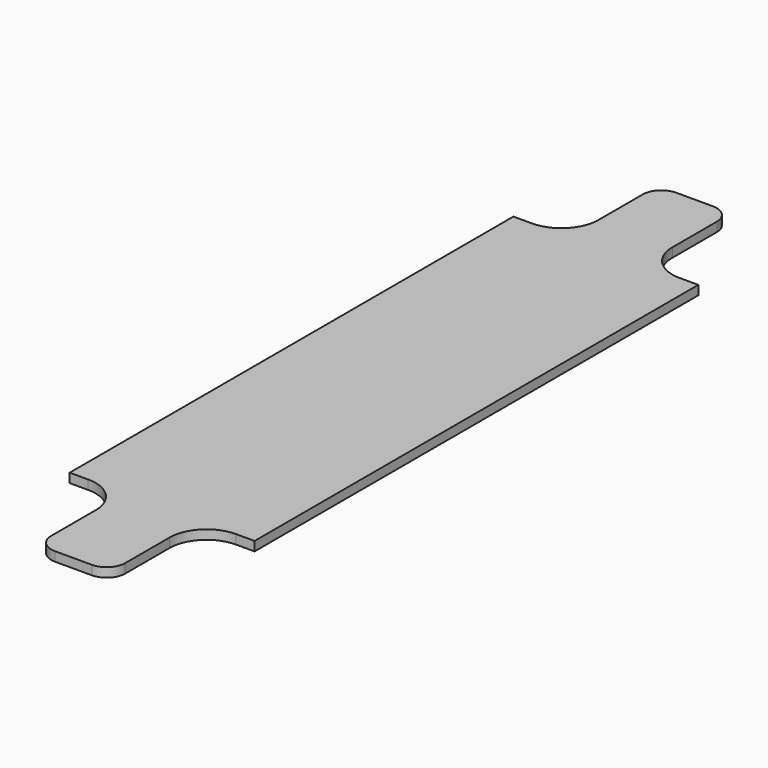
from build123d import *

# Parameters (mm, degrees)
F1_DEPTH = 12.7
F2_R     = 50.8
F3_R     = 25.4


with BuildPart() as f1:
    # F0 (on Top) → F1 (new body)
    with BuildSketch(Plane.XY):
        Polygon((-50.8, 381), (-127, 381), (-127, 0), (-127, -381), (-50.8, -381), (-50.8, -533.4), (50.8, -533.4), (50.8, -381), (127, -381), (127, 0), (127, 381), (50.8, 381), (50.8, 533.4), (-50.8, 533.4), align=None)
    extrude(amount=F1_DEPTH)

    # F2
    f2_edges = [f1.edges().sort_by_distance(p)[0] for p in [
        (-50.8, 381, 6.35),
        (50.8, 381, 6.35),
        (-50.8, -381, 6.35),
        (50.8, -381, 6.35),
    ]]
    fillet(f2_edges, radius=F2_R)

    # F3
    f3_edges = [f1.edges().sort_by_distance(p)[0] for p in [
        (-50.8, -533.4, 6.35),
        (50.8, -533.4, 6.35),
        (50.8, 533.4, 6.35),
        (-50.8, 533.4, 6.35),
    ]]
    fillet(f3_edges, radius=F3_R)


solid = f1.part
